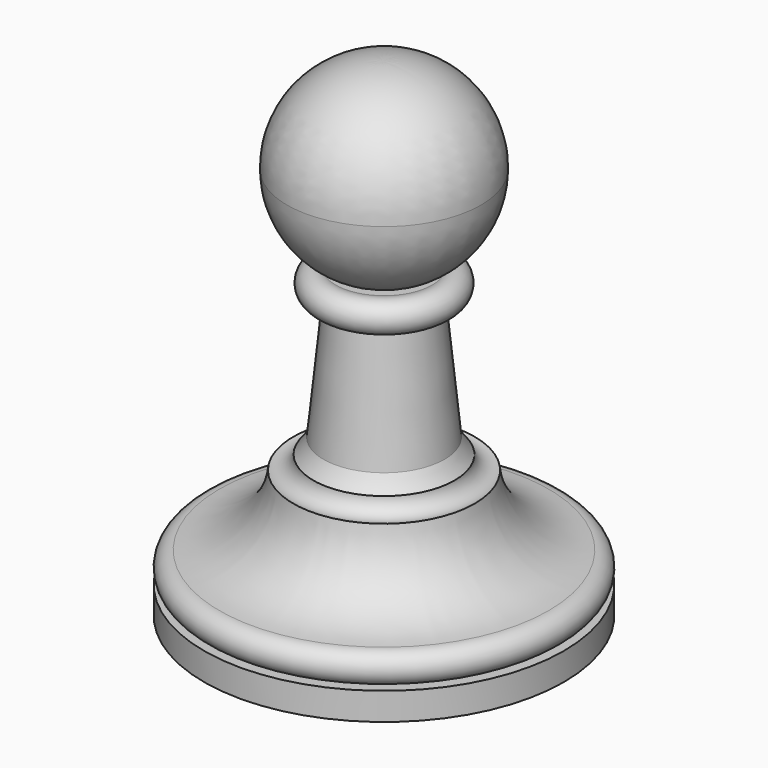
from build123d import *


with BuildPart() as f1:
    # F0 (on Front) → F1 (revolve)
    with BuildSketch(Plane.XZ):
        with BuildLine():
            Line((0, 40.655036), (0, 0))
            Line((0, 0), (14.986, 0))
            Line((14.986, 0), (14.986, 2.286))
            Line((14.986, 2.286), (13.716, 2.286))
            ThreePointArc((13.716, 2.286), (14.986, 3.556), (13.716, 4.826))
            ThreePointArc((13.716, 4.826), (9.53862, 6.591558), (7.551473, 10.668192))
            ThreePointArc((7.551473, 10.668192), (6.427332, 10.831374), (5.883393, 11.828595))
            ThreePointArc((5.883393, 11.828595), (5.424912, 12.437504), (5.0421, 13.096617))
            Line((5.0421, 13.096617), (4.0222, 23.256617))
            ThreePointArc((4.0222, 23.256617), (5.825697, 24.409127), (4.0222, 25.561638))
            Line((4.0222, 25.561638), (3.190992, 25.561638))
            ThreePointArc((3.190992, 25.561638), (6.668584, 28.440249), (8.07384, 32.730389))
            ThreePointArc((8.07384, 32.730389), (5.726889, 38.414497), (0, 40.655036))
        make_face()
        with BuildLine():
            ThreePointArc((3.190992, 25.561638), (6.714494, 28.408978), (8.07384, 32.730389))
            ThreePointArc((8.07384, 32.730389), (6.668584, 28.440249), (3.190992, 25.561638))
        make_face()
    revolve(axis=Axis((0, 0, 20.571872), (0, 0, -1)))


solid = f1.part
